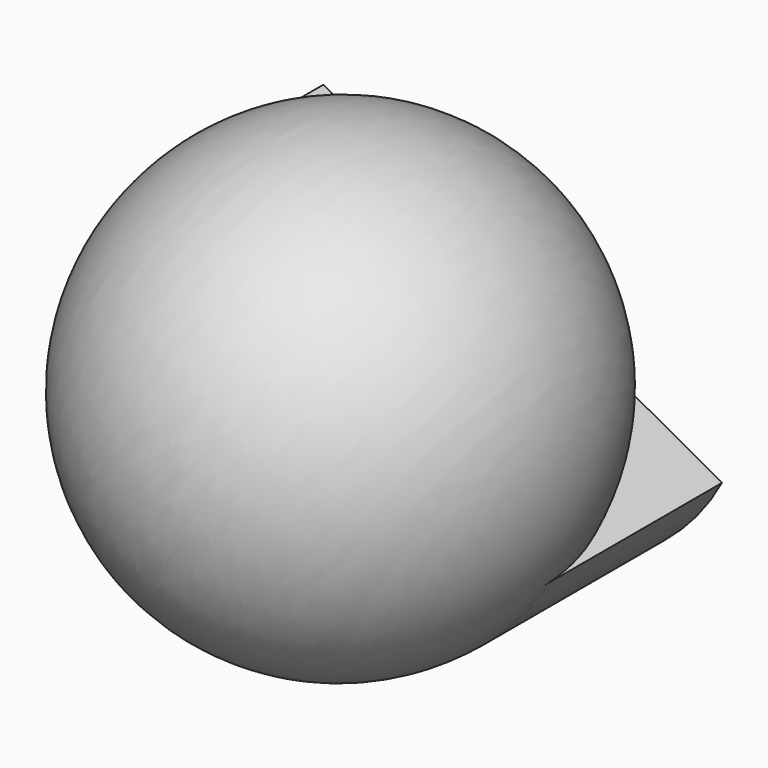
from build123d import *

# Parameters (mm, degrees)
F1_DEPTH = 25.4


with BuildPart() as f1:
    # F0 (on Front) → F1 (new body)
    with BuildSketch(Plane.XZ):
        with BuildLine():
            Line((22.3656423209, -12.0390217034), (-22.0519503329, 12.6044232917))
            ThreePointArc((-22.0519503329, 12.6044232917), (-12.3227207212, -22.2105955352), (22.3656423209, -12.0390217034))
        make_face()
    extrude(amount=F1_DEPTH)


with BuildPart() as f2:
    # F1_face (on face) → F2 (revolve)
    with BuildSketch(Plane(origin=(-5.1452719928, -25.4, -9.273889893), x_dir=(1, 0, 0), z_dir=(0, -1, 0))):
        with BuildLine():
            Line((27.5109143137, -2.7651318104), (-16.90667834, 21.8783131847))
            ThreePointArc((-16.90667834, 21.8783131847), (-7.1774487284, -12.9367056422), (27.5109143137, -2.7651318104))
        make_face()
    revolve(axis=Axis((0.156845994, -25.4, 0.2827007942), (0.8744328951, 0, -0.4851464851)))


solid = Compound([f1.part, f2.part])
